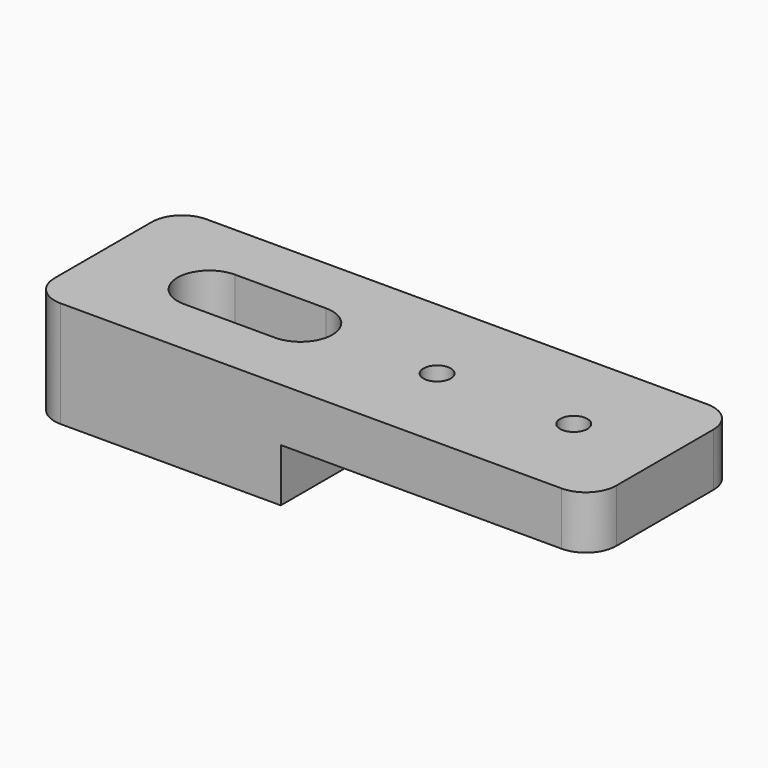
from build123d import *

# Parameters (mm, degrees)
SKETCH_W     = 37
SKETCH_H     = 12
SKETCH_R     = 0.9
PAD_DEPTH    = 7
SKETCH001_W  = 20.5
SKETCH001_H  = 12
POCKET_DEPTH = 3.5
FILLET_R     = 2


with BuildPart() as part:
    # Sketch → Pad (new body)
    with BuildSketch(Plane.XY):
        with Locations((8.5, 0)):
            Rectangle(SKETCH_W, SKETCH_H)
        with Locations((12, 0)):
            Circle(SKETCH_R, mode=Mode.SUBTRACT)
        with Locations((21, 0)):
            Circle(SKETCH_R, mode=Mode.SUBTRACT)
        with BuildLine():
            ThreePointArc((-3, 2.1), (-5.1, 0), (-3, -2.1))
            Line((-3, -2.1), (3, -2.1))
            ThreePointArc((3, -2.1), (5.1, 0), (3, 2.1))
            Line((-3, 2.1), (3, 2.1))
        make_face(mode=Mode.SUBTRACT)
    extrude(amount=PAD_DEPTH)

    # Sketch001 → Pocket (cut)
    with BuildSketch(Plane.XY):
        with Locations((16.75, 0)):
            Rectangle(SKETCH001_W, SKETCH001_H)
    extrude(amount=POCKET_DEPTH, mode=Mode.SUBTRACT)

    # Fillet
    fillet_edges = [part.edges().sort_by_distance(p)[0] for p in [
        (27, 6, 5.25),
        (27, -6, 5.25),
        (-10, -6, 3.5),
        (-10, 6, 3.5),
    ]]
    fillet(fillet_edges, radius=FILLET_R)


solid = part.part
